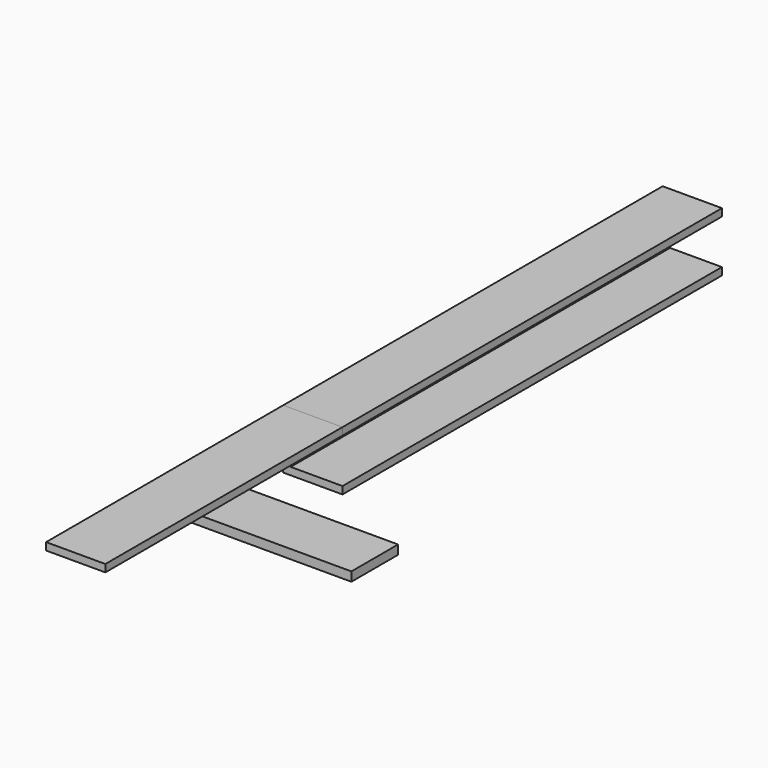
from build123d import *

# Parameters (mm, degrees)
F0_W     = 3.175
F0_H     = 19.05
F1_DEPTH = 203.2
F2_DEPTH = 127
F3_W     = 73.025
F3_H     = 3.906977
F4_DEPTH = 25


with BuildPart() as f1:
    # F0 (on Front) → F1 (new body)
    with BuildSketch(Plane.XZ):
        Polygon((12.7, 12.7), (-12.7, 12.7), (-12.7, 9.525), (-9.525, 9.525), (12.7, 9.525), align=None)
        with Locations((-11.1125, 0)):
            Rectangle(F0_W, F0_H)
        Polygon((-9.525, -9.525), (-12.7, -9.525), (-12.7, -12.7), (12.7, -12.7), (12.7, -9.525), align=None)
    extrude(amount=-F1_DEPTH)


with BuildPart() as f2:
    # F0 (on Front) → F2 (new body)
    with BuildSketch(Plane.XZ):
        Polygon((12.7, 12.7), (-12.7, 12.7), (-12.7, 9.525), (-9.525, 9.525), (12.7, 9.525), align=None)
    extrude(amount=F2_DEPTH)


with BuildPart() as f4:
    # F3 (on Front) → F4 (new body)
    with BuildSketch(Plane.XZ):
        with Locations((0, -25.761629)):
            Rectangle(F3_W, F3_H)
    extrude(amount=F4_DEPTH)


solid = Compound([f1.part, f2.part, f4.part])
